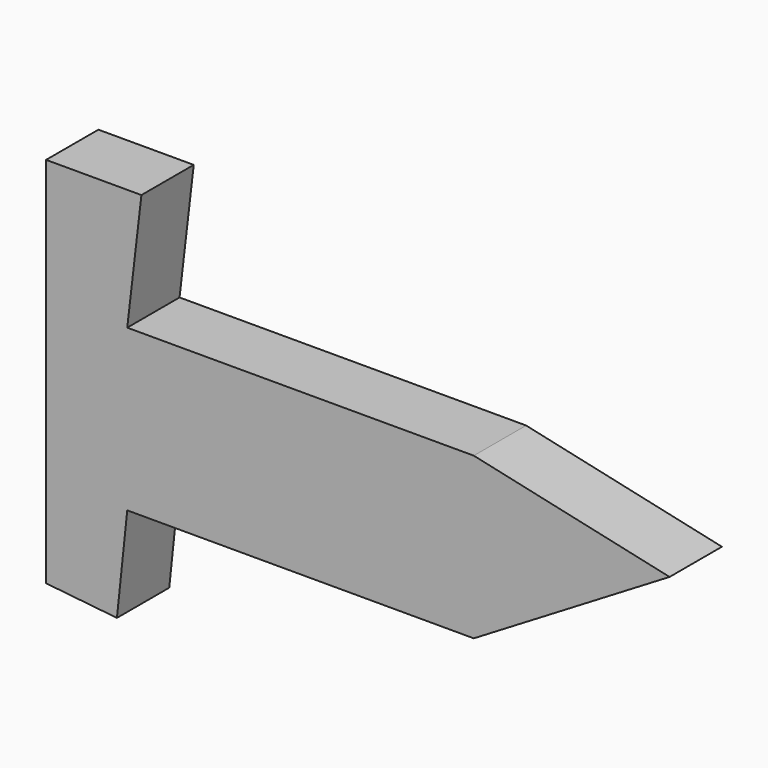
from build123d import *

# Parameters (mm, degrees)
F0_W     = 31.524651
F0_H     = 62.468918
F0_W_2   = 134.60525
F1_DEPTH = 25.4


with BuildPart() as f1:
    # F0 (on Front) → F1 (new body)
    with BuildSketch(Plane.XZ):
        with Locations((-136.606816, -14.502092)):
            Rectangle(F0_W, F0_H)
        Polygon((-120.844491, -45.736551), (-152.369142, -45.736551), (-152.369142, -80.935445), (-124.847621, -83.827771), align=None)
        with Locations((-53.541866, -14.502092)):
            Rectangle(F0_W_2, F0_H)
        Polygon((-152.369142, 63.859507), (-152.369142, 16.732367), (-120.844491, 16.732367), (-115.340188, 63.859507), align=None)
        Polygon((13.760759, 16.732367), (13.760759, -45.736551), (89.820236, 0), align=None)
    extrude(amount=F1_DEPTH)


solid = f1.part
